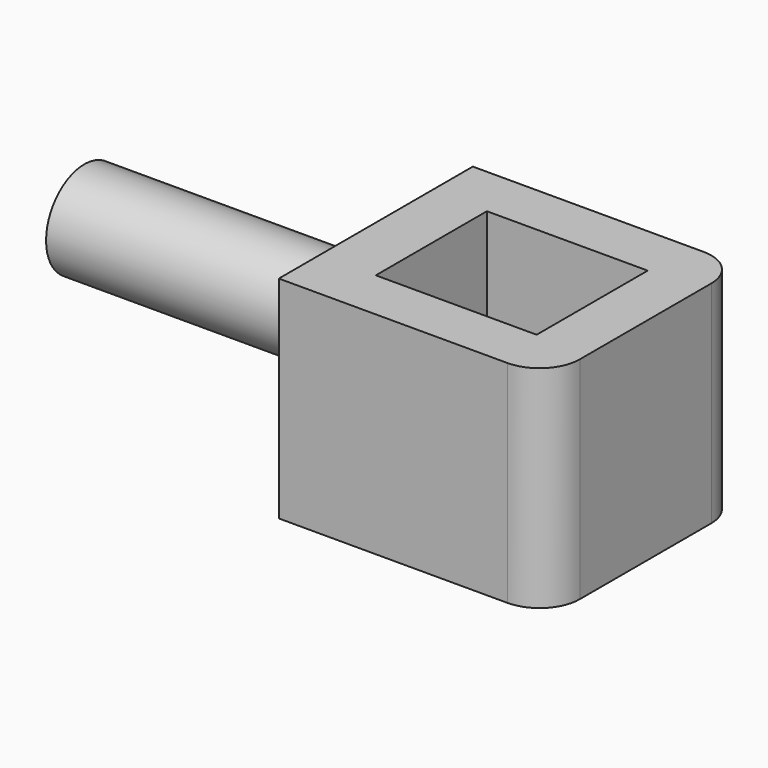
from build123d import *

# Parameters (mm, degrees)
F0_W     = 94.618846
F0_H     = 85.351713
F1_DEPTH = 74.324219
F2_W     = 56.600913
F2_H     = 48.861958
F3_DEPTH = 132.836582
F4_R     = 16.833505
F5_DEPTH = 105.622353
F6_R     = 14.149732
F7_R     = 13.33873


with BuildPart() as f1:
    # F0 (on Top) → F1 (new body)
    with BuildSketch(Plane.XY):
        with Locations((3.090644, -3.800507)):
            Rectangle(F0_W, F0_H)
    extrude(amount=F1_DEPTH)

    # F2 (on face) → F3 (cut)
    with BuildSketch(Plane.XY.offset(74.324219)):
        with Locations((3.696986, -3.887054)):
            Rectangle(F2_W, F2_H)
    extrude(amount=-F3_DEPTH, mode=Mode.SUBTRACT)

    # F4 (on face) → F5 (join)
    with BuildSketch(Plane(origin=(-44.218779, 0, 0), x_dir=(0, -1, 0), z_dir=(-1, 0, 0))):
        with Locations((0, 39.672762)):
            Circle(F4_R)
    extrude(amount=F5_DEPTH)

    # F6
    f6_edges = [f1.edges().sort_by_distance(p)[0] for p in [
        (50.400067, -46.476364, 37.162109),
    ]]
    fillet(f6_edges, radius=F6_R)

    # F7
    f7_edges = [f1.edges().sort_by_distance(p)[0] for p in [
        (50.400067, 38.875349, 37.162109),
    ]]
    fillet(f7_edges, radius=F7_R)


solid = f1.part
